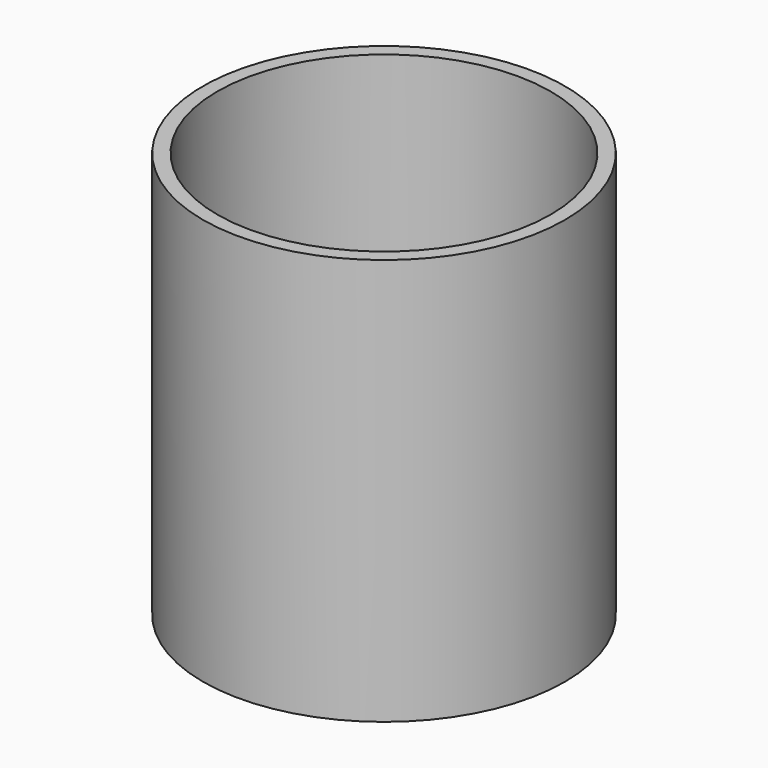
from build123d import *

# Parameters (mm, degrees)
F0_R     = 31.612422
F1_DEPTH = 71
F2_T     = -2.5
F3_R     = 10.164072
F4_DEPTH = 100


with BuildPart() as f1:
    # F0 (on Top) → F1 (new body)
    with BuildSketch(Plane.XY):
        Circle(F0_R)
    extrude(amount=F1_DEPTH)

    # F2
    f2_openings = [f1.faces().sort_by_distance(p)[0] for p in [
        (0, 0, 71),
    ]]
    offset(amount=F2_T, openings=f2_openings)

    # F3 (on Front) → F4 (cut)
    with BuildSketch(Plane.XZ):
        with Locations((2.623318, 32.751575)):
            Circle(F3_R)
    extrude(amount=-F4_DEPTH, mode=Mode.SUBTRACT)


solid = f1.part
